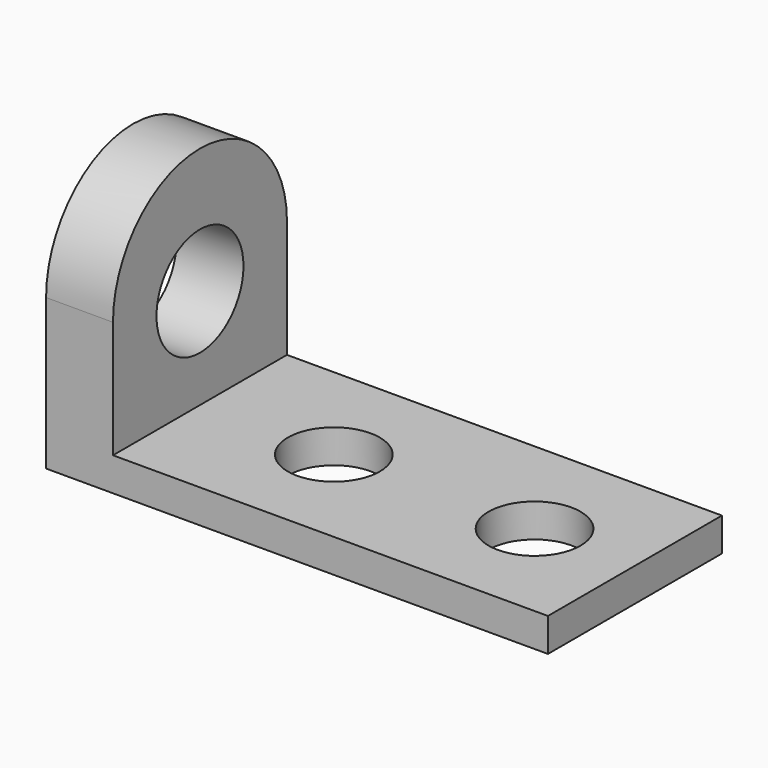
from build123d import *

# Parameters (mm, degrees)
F1_DEPTH = 82.55
F2_R     = 17.4625
F3_DEPTH = 25.4
F5_DEPTH = 25.4
F6_R     = 20.6375
F7_DEPTH = 50.8


with BuildPart() as f1:
    # F0 (on Front) → F1 (new body)
    with BuildSketch(Plane.XZ):
        Polygon((-76.009504, 101.6), (-76.009504, 0), (114.490496, 0), (114.490496, 12.7), (-50.609504, 12.7), (-50.609504, 101.6), align=None)
    extrude(amount=-F1_DEPTH)

    # F2 (on face) → F3 (cut)
    with BuildSketch(Plane.XY.offset(12.7)):
        with Locations((0.190496, 41.275)):
            Circle(F2_R)
        with Locations((76.390496, 41.275)):
            Circle(F2_R)
    extrude(amount=-F3_DEPTH, mode=Mode.SUBTRACT)

    # F4 (on face) → F5 (cut)
    with BuildSketch(Plane(origin=(-76.009504, 0, 0), x_dir=(0, -1, 0), z_dir=(-1, 0, 0))):
        with BuildLine():
            ThreePointArc((-82.55, 57.15), (-41.275, 98.425), (0, 57.15))
            Line((0, 57.15), (0, 101.6))
            Line((0, 101.6), (-82.55, 101.6))
            Line((-82.55, 101.6), (-82.55, 57.15))
        make_face()
    extrude(amount=-F5_DEPTH, mode=Mode.SUBTRACT)

    # F6 (on face) → F7 (cut)
    with BuildSketch(Plane.YZ.offset(-50.609504)):
        with Locations((41.275, 50.8)):
            Circle(F6_R)
    extrude(amount=-F7_DEPTH, mode=Mode.SUBTRACT)


solid = f1.part
